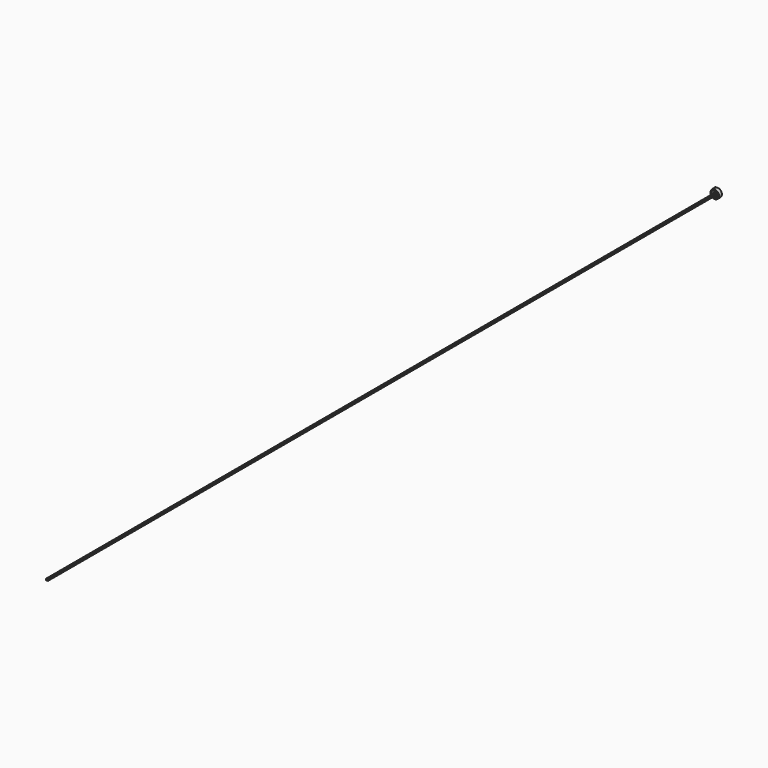
from build123d import *

# Parameters (mm, degrees)
F0_R     = 22.7761001629
F1_DEPTH = 25.4
F0_R_2   = 11.6281056137
F2_W     = 12.9673983902
F2_H     = 10.0857559592
F3_DEPTH = 5842


with BuildPart() as f1:
    # F0 (on Front) → F1 (new body)
    with BuildSketch(Plane.XZ):
        with BuildLine():
            ThreePointArc((-38.9781716419, 34.6505036411), (-37.1587445813, -17.1673038716), (7.4380809076, 9.2811109498))
            ThreePointArc((7.4380809076, 9.2811109498), (-5.7220592873, 34.1835833315), (-33.7105806058, 37.3403372139))
            ThreePointArc((-33.7105806058, 37.3403372139), (-33.5156033639, 36.7464879743), (-33.4496309823, 36.1249409616))
            ThreePointArc((-33.4496309823, 36.1249409616), (-35.6475280227, 33.2640526713), (-38.9781716419, 34.6505036411))
        make_face()
        with Locations((-22.7030273527, 9.2811109498)):
            Circle(F0_R, mode=Mode.SUBTRACT)
        with BuildLine():
            ThreePointArc((-33.4496309823, 36.1249409616), (-33.5156033639, 36.7464879743), (-33.7105806058, 37.3403372139))
            ThreePointArc((-33.7105806058, 37.3403372139), (-36.4105142653, 36.1249409616), (-38.9781716419, 34.6505036411))
            ThreePointArc((-38.9781716419, 34.6505036411), (-35.6475280227, 33.2640526713), (-33.4496309823, 36.1249409616))
        make_face()
        with BuildLine():
            ThreePointArc((-38.9781716419, 34.6505036411), (-36.4105142653, 36.1249409616), (-33.7105806058, 37.3403372139))
            ThreePointArc((-33.7105806058, 37.3403372139), (-37.757056287, 38.7619192322), (-38.9781716419, 34.6505036411))
        make_face()
    extrude(amount=F1_DEPTH)


with BuildPart() as f1b:
    # F0 (on Front) → F1, piece 2 (new body)
    with BuildSketch(Plane.XZ):
        with Locations((-22.7030273527, 9.2811109498)):
            Circle(F0_R_2)
    extrude(amount=F1_DEPTH)

    # F2 (on face) → F3 (join)
    with BuildSketch(Plane.XZ.offset(25.4)):
        with Locations((-22.4253004417, 9.0910159051)):
            Rectangle(F2_W, F2_H)
    extrude(amount=F3_DEPTH)


solid = Compound([f1.part, f1b.part])
